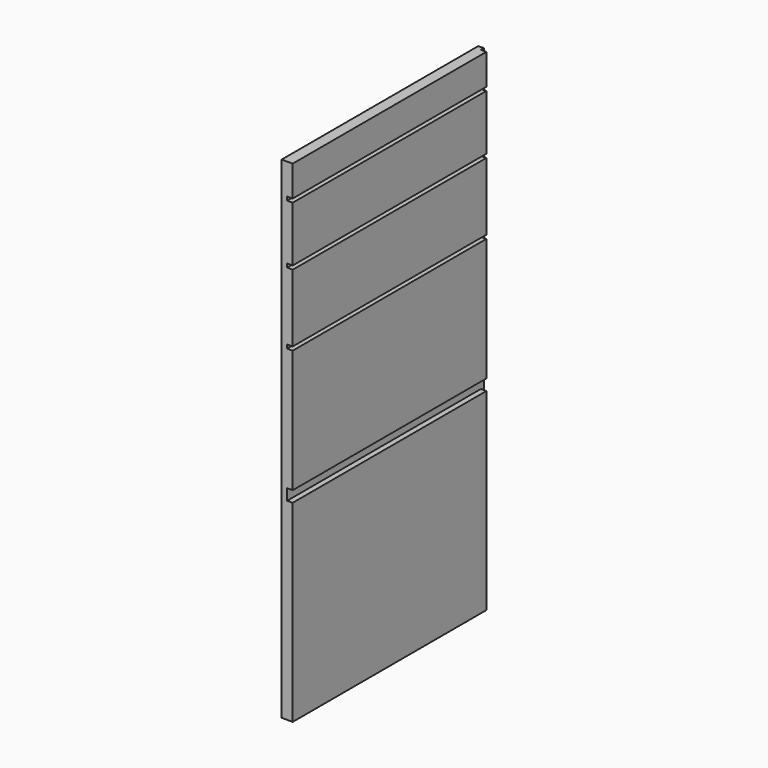
from build123d import *

# Parameters (mm, degrees)
F0_W     = 394
F0_H     = 50
F1_DEPTH = 18
F0_H_2   = 90
F0_H_3   = 110
F0_H_4   = 200
F0_H_5   = 314
F0_W_2   = 6
F0_H_6   = 6
F0_H_7   = 18
F2_DEPTH = 9


with BuildPart() as f1:
    # F0 (on Right) → F1 (new body)
    with BuildSketch(Plane.YZ):
        with Locations((197, 775)):
            Rectangle(F0_W, F0_H)
    extrude(amount=F1_DEPTH)



with BuildPart() as f1b:
    # F0 (on Right) → F1, piece 2 (new body)
    with BuildSketch(Plane.YZ):
        with Locations((197, 699)):
            Rectangle(F0_W, F0_H_2)
    extrude(amount=F1_DEPTH)


with BuildPart() as f1c:
    # F0 (on Right) → F1, piece 3 (new body)
    with BuildSketch(Plane.YZ):
        with Locations((197, 593)):
            Rectangle(F0_W, F0_H_3)
    extrude(amount=F1_DEPTH)


with BuildPart() as f1d:
    # F0 (on Right) → F1, piece 4 (new body)
    with BuildSketch(Plane.YZ):
        with Locations((197, 432)):
            Rectangle(F0_W, F0_H_4)
    extrude(amount=F1_DEPTH)


with BuildPart() as f1e:
    # F0 (on Right) → F1, piece 5 (new body)
    with BuildSketch(Plane.YZ):
        with Locations((197, 157)):
            Rectangle(F0_W, F0_H_5)
    extrude(amount=F1_DEPTH)


with BuildPart() as f1_1:
    add(f1.part)

    add(f1b.part)  # F2 merges F1b

    add(f1c.part)  # F2 merges F1c

    add(f1d.part)  # F2 merges F1d

    add(f1e.part)  # F2 merges F1e
    # F0 (on Right) → F2 (join)
    with BuildSketch(Plane.YZ):
        with Locations((397, 775)):
            Rectangle(F0_W_2, F0_H)
        with Locations((397, 747)):
            Rectangle(F0_W_2, F0_H_6)
        with Locations((397, 699)):
            Rectangle(F0_W_2, F0_H_2)
        with Locations((197, 747)):
            Rectangle(F0_W, F0_H_6)
        with Locations((197, 651)):
            Rectangle(F0_W, F0_H_6)
        with Locations((397, 651)):
            Rectangle(F0_W_2, F0_H_6)
        with Locations((397, 593)):
            Rectangle(F0_W_2, F0_H_3)
        with Locations((197, 535)):
            Rectangle(F0_W, F0_H_6)
        with Locations((397, 535)):
            Rectangle(F0_W_2, F0_H_6)
        with Locations((397, 432)):
            Rectangle(F0_W_2, F0_H_4)
        with Locations((197, 323)):
            Rectangle(F0_W, F0_H_7)
        with Locations((397, 157)):
            Rectangle(F0_W_2, F0_H_5)
        with Locations((397, 323)):
            Rectangle(F0_W_2, F0_H_7)
    extrude(amount=F2_DEPTH)


solid = f1_1.part
